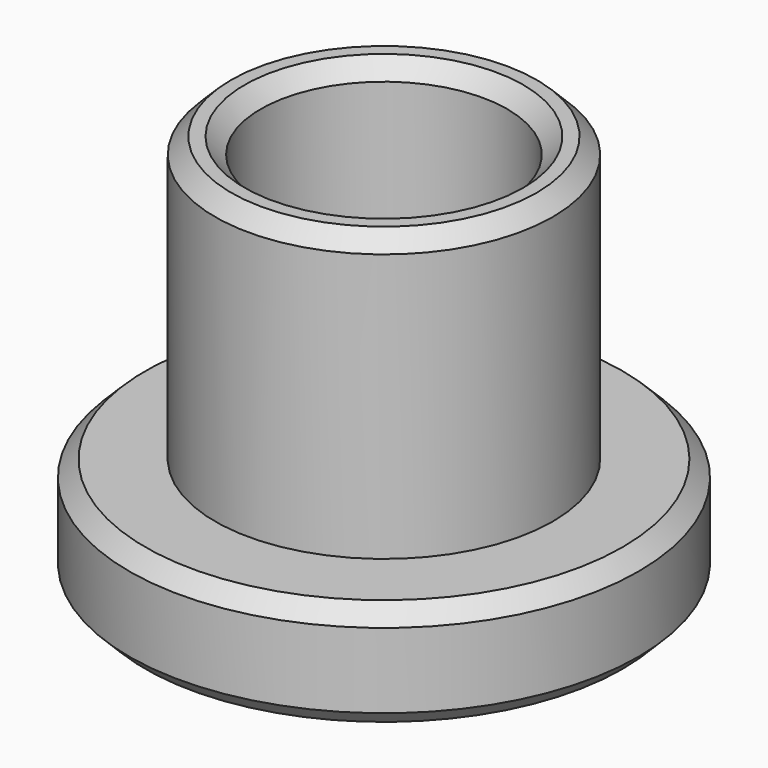
from build123d import *

# Parameters (mm, degrees)
F0_R     = 4.75
F1_DEPTH = 2
F2_R     = 3.15
F3_DEPTH = 5.3
F4_R     = 2.3
F5_DEPTH = 7.301
F6_SIZE  = 0.3


with BuildPart() as f1:
    # F0 (on Top) → F1 (new body)
    with BuildSketch(Plane.XY):
        Circle(F0_R)
    extrude(amount=F1_DEPTH)

    # F2 (on face) → F3 (join)
    with BuildSketch(Plane.XY.offset(2)):
        Circle(F2_R)
    extrude(amount=F3_DEPTH)

    # F4 (on face) → F5 (cut, through all)
    with BuildSketch(Plane(origin=(0, 0, 0), x_dir=(1, 0, 0), z_dir=(0, 0, -1))):
        Circle(F4_R)
    extrude(amount=-F5_DEPTH, mode=Mode.SUBTRACT)

    # F6
    f6_edges = [f1.edges().sort_by_distance(p)[0] for p in [
        (-4.75, 0, 0),
        (-2.3, 0, 0),
        (-2.3, 0, 7.3),
        (-3.15, 0, 7.3),
        (-4.75, 0, 2),
    ]]
    chamfer(f6_edges, length=F6_SIZE)


solid = f1.part
